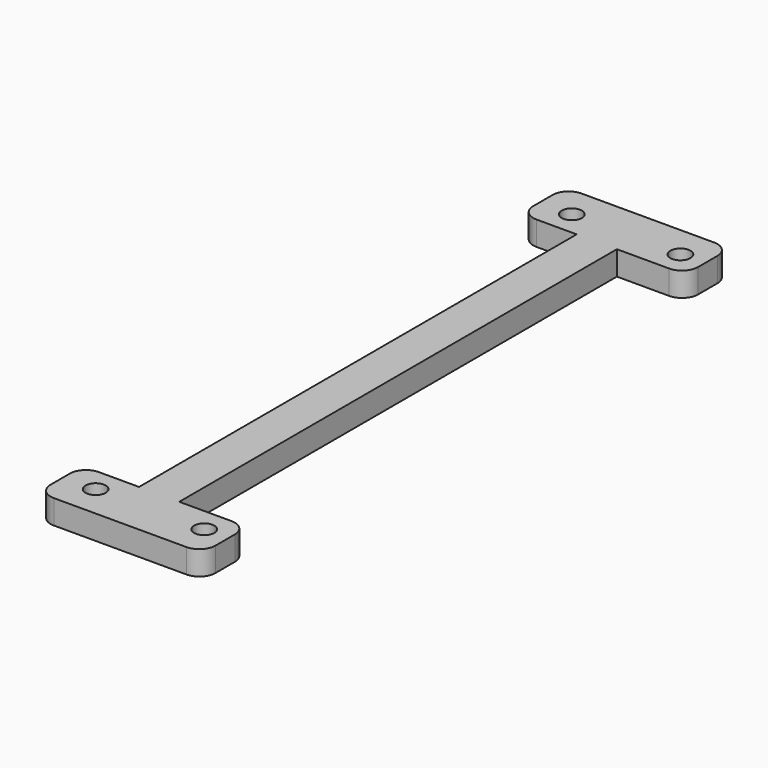
from build123d import *

# Parameters (mm, degrees)
F0_R     = 1.25
F1_DEPTH = 3


with BuildPart() as f1:
    # F0 (on Top) → F1 (new body)
    with BuildSketch(Plane.XY):
        with BuildLine():
            Line((-3.850933, 45.361303), (-20.350933, 45.361303))
            ThreePointArc((-20.350933, 45.361303), (-21.765147, 44.775517), (-22.350933, 43.361303))
            Line((-22.350933, 43.361303), (-22.350933, 40.361303))
            ThreePointArc((-22.350933, 40.361303), (-21.765147, 38.94709), (-20.350933, 38.361303))
            Line((-20.350933, 38.361303), (-15.350933, 38.361303))
            Line((-15.350933, 38.361303), (-15.350933, -29.638697))
            Line((-15.350933, -29.638697), (-20.350933, -29.638697))
            ThreePointArc((-20.350933, -29.638697), (-21.765147, -30.224483), (-22.350933, -31.638697))
            Line((-22.350933, -31.638697), (-22.350933, -34.638697))
            ThreePointArc((-22.350933, -34.638697), (-21.765147, -36.05291), (-20.350933, -36.638697))
            Line((-20.350933, -36.638697), (-3.850933, -36.638697))
            ThreePointArc((-3.850933, -36.638697), (-2.43672, -36.05291), (-1.850933, -34.638697))
            Line((-1.850933, -34.638697), (-1.850933, -31.638697))
            ThreePointArc((-1.850933, -31.638697), (-2.43672, -30.224483), (-3.850933, -29.638697))
            Line((-3.850933, -29.638697), (-10.350933, -29.638697))
            Line((-10.350933, -29.638697), (-10.350933, 38.361303))
            Line((-10.350933, 38.361303), (-3.850933, 38.361303))
            ThreePointArc((-3.850933, 38.361303), (-2.43672, 38.94709), (-1.850933, 40.361303))
            Line((-1.850933, 40.361303), (-1.850933, 43.361303))
            ThreePointArc((-1.850933, 43.361303), (-2.43672, 44.775517), (-3.850933, 45.361303))
        make_face()
        with Locations((-18.350933, -32.638697)):
            Circle(F0_R, mode=Mode.SUBTRACT)
        with Locations((-4.850933, -32.638697)):
            Circle(F0_R, mode=Mode.SUBTRACT)
        with Locations((-18.350933, 41.361303)):
            Circle(F0_R, mode=Mode.SUBTRACT)
        with Locations((-4.850933, 41.361303)):
            Circle(F0_R, mode=Mode.SUBTRACT)
    extrude(amount=F1_DEPTH)


solid = f1.part
